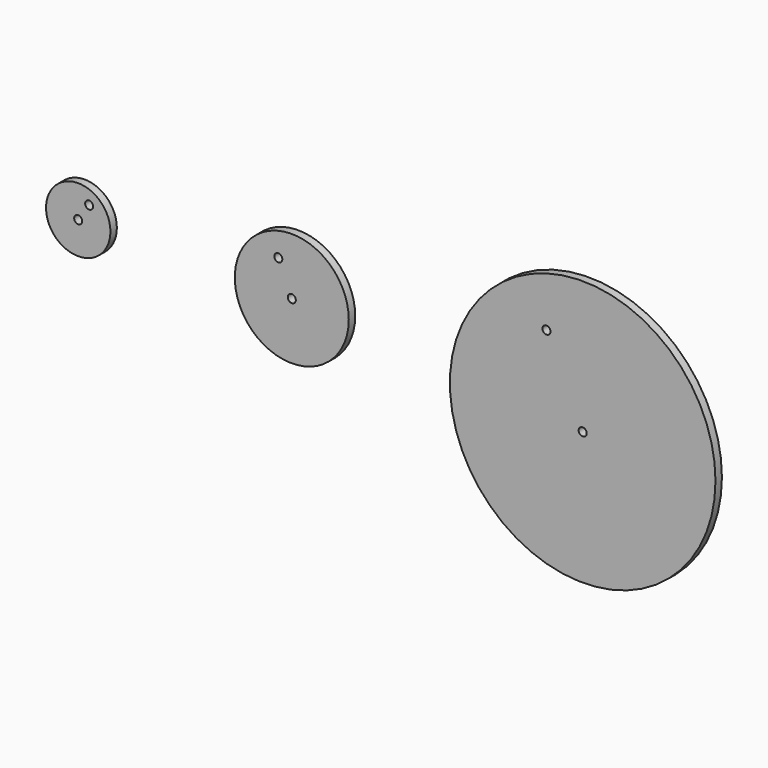
from build123d import *

# Parameters (mm, degrees)
F0_R     = 5.08
F0_R_2   = 0.636219
F0_R_3   = 0.635
F1_DEPTH = 1.27
F0_R_4   = 8.9916
F0_R_5   = 20.955
F2_DEPTH = 1.27


with BuildPart() as f1:
    # F0 (on Front) → F1 (new body)
    with BuildSketch(Plane.XZ):
        with Locations((-55.394662, 0)):
            Circle(F0_R)
        with Locations((-55.394662, 0)):
            Circle(F0_R_2, mode=Mode.SUBTRACT)
        with Locations((-53.671103, 2.601031)):
            Circle(F0_R_3, mode=Mode.SUBTRACT)
    extrude(amount=F1_DEPTH)

    # F0 (on Front) → F2 (join)
    with BuildSketch(Plane.XZ):
        with Locations((-55.394662, 0)):
            Circle(F0_R)
        with Locations((-55.394662, 0)):
            Circle(F0_R_2, mode=Mode.SUBTRACT)
        with Locations((-53.671103, 2.601031)):
            Circle(F0_R_3, mode=Mode.SUBTRACT)
        with Locations((-21.693016, 0)):
            Circle(F0_R_4)
        with Locations((-21.693016, 0)):
            Circle(F0_R_2, mode=Mode.SUBTRACT)
        with Locations((-23.821851, 4.97806)):
            Circle(F0_R_3, mode=Mode.SUBTRACT)
        with Locations((24.210954, -3.583221)):
            Circle(F0_R_5)
        with Locations((24.210954, -3.583221)):
            Circle(F0_R_2, mode=Mode.SUBTRACT)
        with Locations((18.498367, 8.702404)):
            Circle(F0_R_3, mode=Mode.SUBTRACT)
    extrude(amount=F2_DEPTH)


solid = f1.part
